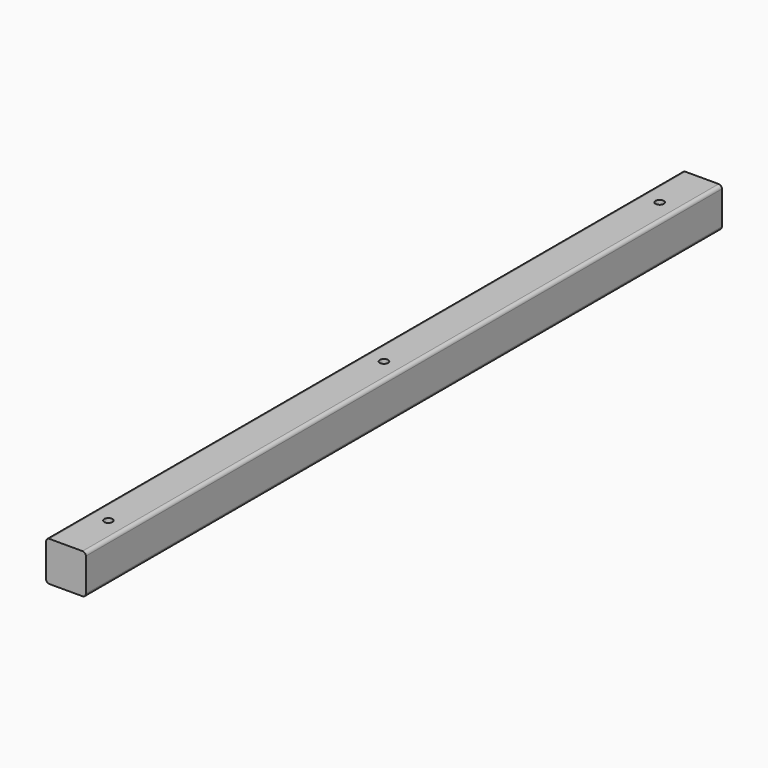
from build123d import *

# Parameters (mm, degrees)
CYLINDER_R                 = 3.96875
CYLINDER_DEPTH             = 50.8
EXTRUDE015_DEPTH           = 762
EXTRUDE015_PITCH_ANGLE     = -90
EXTRUDE015_PLACEMENT_ANGLE = -90


with BuildPart() as cylinder:
    # Cylinder → Cylinder (new body)
    with BuildSketch(Plane(origin=(381, 203.2, 16.66875), x_dir=(1, 0, 0), z_dir=(0, 0, 1))):
        Circle(CYLINDER_R)
    extrude(amount=CYLINDER_DEPTH)


with BuildPart() as cylinder003:
    # Link073 base: copy of Cylinder
    add(cylinder.part)


with BuildPart() as cylinder003_1:
    # Link073 placement: moved
    add(cylinder003.part.moved(Location((-349.249989, 508.0005, -3.968746))))


with BuildPart() as cylinder002:
    # Link072 base: copy of Cylinder
    add(cylinder.part)


with BuildPart() as cylinder002_1:
    # Link072 placement: moved
    add(cylinder002.part.moved(Location((-349.249989, 177.800183, -3.968753))))


with BuildPart() as cylinder001:
    # Link071 base: copy of Cylinder
    add(cylinder.part)


with BuildPart() as cylinder001_1:
    # Link071 placement: moved
    add(cylinder001.part.moved(Location((-349.250002, -152.399982, -3.968748))))


with BuildPart() as baffle_frame_d:
    # Sketch015 → Extrude015 (new body)
    with BuildSketch(Plane.XY):
        with BuildLine():
            Line((0, 34.925), (0, 3.175))
            ThreePointArc((0, 3.175), (0.929936, 0.929936), (3.175, 0))
            Line((34.925, 0), (3.175, 0))
            ThreePointArc((34.925, 0), (37.170064, 0.929936), (38.1, 3.175))
            Line((38.1, 34.925), (38.1, 3.175))
            ThreePointArc((38.1, 34.925), (37.170064, 37.170064), (34.925, 38.1))
            Line((3.175, 38.1), (34.925, 38.1))
            ThreePointArc((3.175, 38.1), (0.929936, 37.170064), (0, 34.925))
        make_face()
    extrude(amount=EXTRUDE015_DEPTH)


with BuildPart() as baffle_frame_d_1:
    # Extrude015 pitch: moved
    add(baffle_frame_d.part.rotate(Axis((0, 0, 0), (0, 1, 0)), EXTRUDE015_PITCH_ANGLE))


with BuildPart() as baffle_frame_d_2:
    # Extrude015 placement: moved
    add(baffle_frame_d_1.part.moved(Location((12.7, 0, 19.05))).rotate(Axis((12.7, 0, 19.05), (0, 0, 1)), EXTRUDE015_PLACEMENT_ANGLE))

    # Cut001: cut Cylinder001
    add(cylinder001_1.part, mode=Mode.SUBTRACT)

    # Cut002: cut Cylinder002
    add(cylinder002_1.part, mode=Mode.SUBTRACT)

    # Cut003: cut Cylinder003
    add(cylinder003_1.part, mode=Mode.SUBTRACT)


solid = baffle_frame_d_2.part
